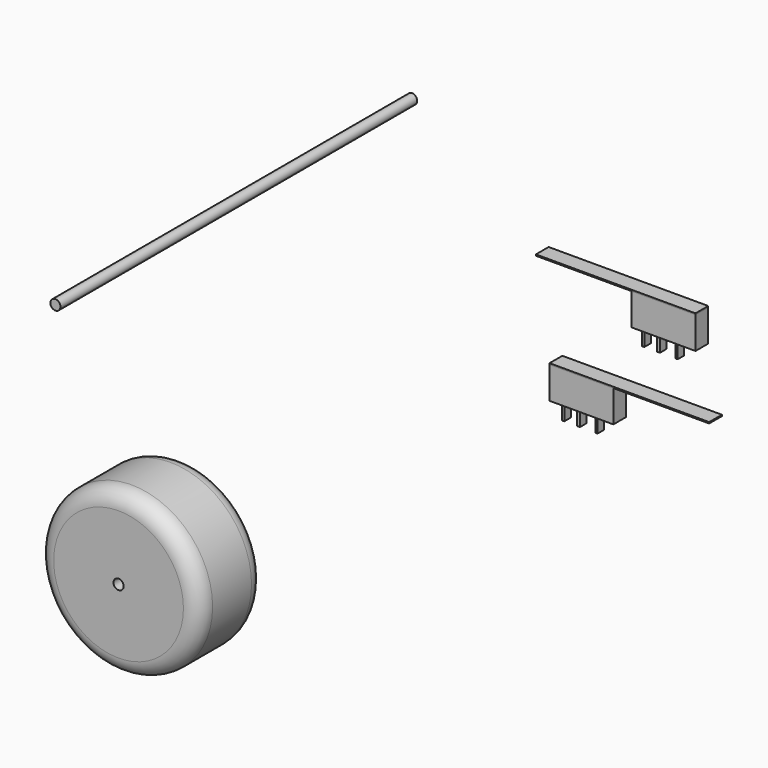
from build123d import *

# Parameters (mm, degrees)
F0_W      = 20
F0_H      = 10
F1_DEPTH  = 5
F2_W      = 20
F2_H      = 5
F2_W_2    = 30
F4_DEPTH  = 0.396875
F3_W      = 30
F3_H      = 5
F3_W_2    = 20
F5_W      = 0.7280735299
F5_H      = 2.5347038172
F5_W_2    = 0.9414851665
F5_W_3    = 0.6383657455
F7_DEPTH  = 5
F6_W      = 0.7280735299
F6_H      = 2.5347038172
F6_W_2    = 0.9414851665
F6_W_3    = 0.6383657455
F8_R      = 1.5875
F9_DEPTH  = 139.7
F10_R     = 25.4
F11_DEPTH = 25.4
F12_D     = 3.175
F13_R     = 5.08


with BuildPart() as f1:
    # F0 (on Front) → F1 (new body)
    with BuildSketch(Plane.XZ):
        with Locations((-3.5627891682, -19.313269183)):
            Rectangle(F0_W, F0_H)
    extrude(amount=F1_DEPTH)


with BuildPart() as f1b:
    # F0 (on Front) → F1, piece 2 (new body)
    with BuildSketch(Plane.XZ):
        with Locations((22.1535649523, 9.2935619131)):
            Rectangle(F0_W, F0_H)
    extrude(amount=F1_DEPTH)

    # F5 (on face) → F7 (join)
    with BuildSketch(Plane(origin=(0, 0, 4.2935619131), x_dir=(1, 0, 0), z_dir=(0, 0, -1))):
        with Locations((14.7023140453, 2.3999989498)):
            Rectangle(F5_W, F5_H)
        with Locations((19.4874030712, 2.3999989498)):
            Rectangle(F5_W_2, F5_H)
        with Locations((25.1673069077, 2.3999989498)):
            Rectangle(F5_W_3, F5_H)
    extrude(amount=F7_DEPTH)


with BuildPart() as f4:
    # F2 (on face) → F4 (new body)
    with BuildSketch(Plane.XY.offset(14.2935619131)):
        with Locations((22.1535649523, -2.5)):
            Rectangle(F2_W, F2_H)
        with Locations((-2.8464350477, -2.5)):
            Rectangle(F2_W_2, F2_H)
    extrude(amount=F4_DEPTH)


with BuildPart() as f4b:
    # F3 (on face) → F4, piece 2 (new body)
    with BuildSketch(Plane.XY.offset(-14.313269183)):
        with Locations((21.4372108318, -2.5)):
            Rectangle(F3_W, F3_H)
        with Locations((-3.5627891682, -2.5)):
            Rectangle(F3_W_2, F3_H)
    extrude(amount=F4_DEPTH)


with BuildPart() as f7:
    # F6 (on face) → F7, piece 2 (new body)
    with BuildSketch(Plane(origin=(0, 0, -24.313269183), x_dir=(1, 0, 0), z_dir=(0, 0, -1))):
        with Locations((-10.3228180669, 2.4573516566)):
            Rectangle(F6_W, F6_H)
        with Locations((-5.5377290411, 2.4573516566)):
            Rectangle(F6_W_2, F6_H)
        with Locations((0.1421747954, 2.4573516566)):
            Rectangle(F6_W_3, F6_H)
    extrude(amount=F7_DEPTH)


with BuildPart() as f9:
    # F8 (on Front) → F9 (new body)
    with BuildSketch(Plane.XZ):
        with Locations((-60.6186874211, 41.6163094342)):
            Circle(F8_R)
    extrude(amount=F9_DEPTH)


with BuildPart() as f11:
    # F10 (on Front) → F11 (new body)
    with BuildSketch(Plane.XZ):
        with Locations((-132.2688162327, -105.2507534623)):
            Circle(F10_R)
        with Locations((-132.2688162327, -105.2507534623)):
            Circle(F10_R)
    extrude(amount=F11_DEPTH)

    # F12 (through all)
    with Locations(Plane(origin=(0, 0, 0), x_dir=(1, 0, 0), z_dir=(0, 1, 0))):
        with Locations((-132.2688162327, 105.2507534623)):
            Hole(F12_D / 2)

    # F13
    f13_edges = [f11.edges().sort_by_distance(p)[0] for p in [
        (-157.668816, -25.4, -105.250753),
        (-157.668816, 0, -105.250753),
    ]]
    fillet(f13_edges, radius=F13_R)


solid = Compound([f1.part, f1b.part, f4.part, f4b.part, f7.part, f9.part, f11.part])
